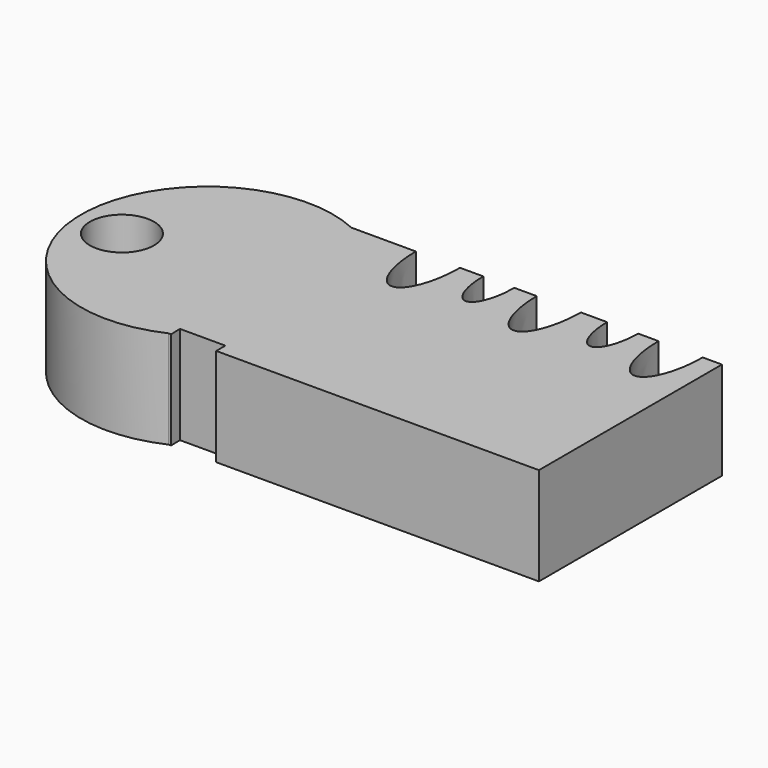
from build123d import *

# Parameters (mm, degrees)
F0_W      = 96.0585176945
F0_H      = 59.3097396195
F1_DEPTH  = 25.4
F2_R      = 6.9698590231
F3_DEPTH  = 25.4
F4_R      = 8.3090946214
F5_DEPTH  = 43.688
F7_DEPTH  = 28.702
F9_DEPTH  = 25.4
F11_DEPTH = 36.83


with BuildPart() as f1:
    # F0 (on Top) → F1 (new body)
    with BuildSketch(Plane.XY):
        with Locations((23.4913080931, 1.3955235481)):
            Rectangle(F0_W, F0_H)
        with BuildLine():
            Line((-24.5379507542, -28.2593462616), (-24.5379507542, 31.0503933579))
            ThreePointArc((-24.5379507542, 31.0503933579), (-70.8578223618, 1.3955235481), (-24.5379507542, -28.2593462616))
        make_face()
    extrude(amount=F1_DEPTH)

    # F2 (on Top) → F3 (join)
    with BuildSketch(Plane.XY):
        with Locations((-53.8439378142, 0)):
            Circle(F2_R)
    extrude(amount=F3_DEPTH)

    # F4 (on Top) → F5 (cut)
    with BuildSketch(Plane.XY):
        with Locations((-59.1934472322, 0)):
            Circle(F4_R)
    extrude(amount=F5_DEPTH, mode=Mode.SUBTRACT)

    # F6 (on Top) → F7 (cut)
    with BuildSketch(Plane.XY):
        with BuildLine():
            add(Edge.make_bspline(
                [(-2.1032807417, 46.1836736649), (-12.042039887, 46.1836736649), (-7.0726603144, 23.6138207838), (-2.1032807417, 1.0439679027), (2.8660988309, 23.6138207838), (7.8354784036, 46.1836736649), (-2.1032807417, 46.1836736649)],
                knots=[0, 0, 0, 2.0943951024, 2.0943951024, 4.1887902048, 4.1887902048, 6.2831853072, 6.2831853072, 6.2831853072], degree=2, weights=[1, 0.5, 1, 0.5, 1, 0.5, 1]))
        make_face()
        with BuildLine():
            add(Edge.make_bspline(
                [(13.6858932674, 41.4513960598), (6.7221471859, 41.4513960598), (10.2040202267, 25.6374778168), (13.6858932674, 9.8235595737), (17.1677663081, 25.6374778168), (20.6496393489, 41.4513960598), (13.6858932674, 41.4513960598)],
                knots=[0, 0, 0, 2.0943951024, 2.0943951024, 4.1887902048, 4.1887902048, 6.2831853072, 6.2831853072, 6.2831853072], degree=2, weights=[1, 0.5, 1, 0.5, 1, 0.5, 1]))
        make_face()
        with BuildLine():
            add(Edge.make_bspline(
                [(29.2345341295, 46.4820731431), (19.2957749842, 46.4820731431), (24.2651545569, 23.912220262), (29.2345341295, 1.3423673809), (34.2039137021, 23.912220262), (39.1732932748, 46.4820731431), (29.2345341295, 46.4820731431)],
                knots=[0, 0, 0, 2.0943951024, 2.0943951024, 4.1887902048, 4.1887902048, 6.2831853072, 6.2831853072, 6.2831853072], degree=2, weights=[1, 0.5, 1, 0.5, 1, 0.5, 1]))
        make_face()
        with BuildLine():
            add(Edge.make_bspline(
                [(45.7755737007, 41.7389214156), (38.8118276192, 41.7389214156), (42.2937006599, 25.9250031726), (45.7755737007, 10.1110849296), (49.2574467414, 25.9250031726), (52.7393197821, 41.7389214156), (45.7755737007, 41.7389214156)],
                knots=[0, 0, 0, 2.0943951024, 2.0943951024, 4.1887902048, 4.1887902048, 6.2831853072, 6.2831853072, 6.2831853072], degree=2, weights=[1, 0.5, 1, 0.5, 1, 0.5, 1]))
        make_face()
        with BuildLine():
            add(Edge.make_bspline(
                [(60.8162461653, 46.2759053466), (50.87748702, 46.2759053466), (55.8468665926, 23.7060524655), (60.8162461653, 1.1361995844), (65.7856257379, 23.7060524655), (70.7550053106, 46.2759053466), (60.8162461653, 46.2759053466)],
                knots=[0, 0, 0, 2.0943951024, 2.0943951024, 4.1887902048, 4.1887902048, 6.2831853072, 6.2831853072, 6.2831853072], degree=2, weights=[1, 0.5, 1, 0.5, 1, 0.5, 1]))
        make_face()
    extrude(amount=F7_DEPTH, mode=Mode.SUBTRACT)

    # F8 (on Top) → F9 (cut)
    with BuildSketch(Plane.XY):
        Polygon((71.7460587621, -22.2876053303), (-17.4043662846, -22.2876053303), (-17.4043662846, -27.296056971), (-17.4043662846, -33.5566177964), (71.7460587621, -33.5566177964), align=None)
    extrude(amount=-F9_DEPTH, mode=Mode.SUBTRACT)

    # F10 (on Top) → F11 (cut)
    with BuildSketch(Plane.XY):
        Polygon((-23.9153504372, -25.2926759422), (-23.6649308354, -35.5600006878), (-12.1454931796, -35.5600006878), (-12.1454931796, -25.2926759422), align=None)
    extrude(amount=F11_DEPTH, mode=Mode.SUBTRACT)


solid = f1.part
